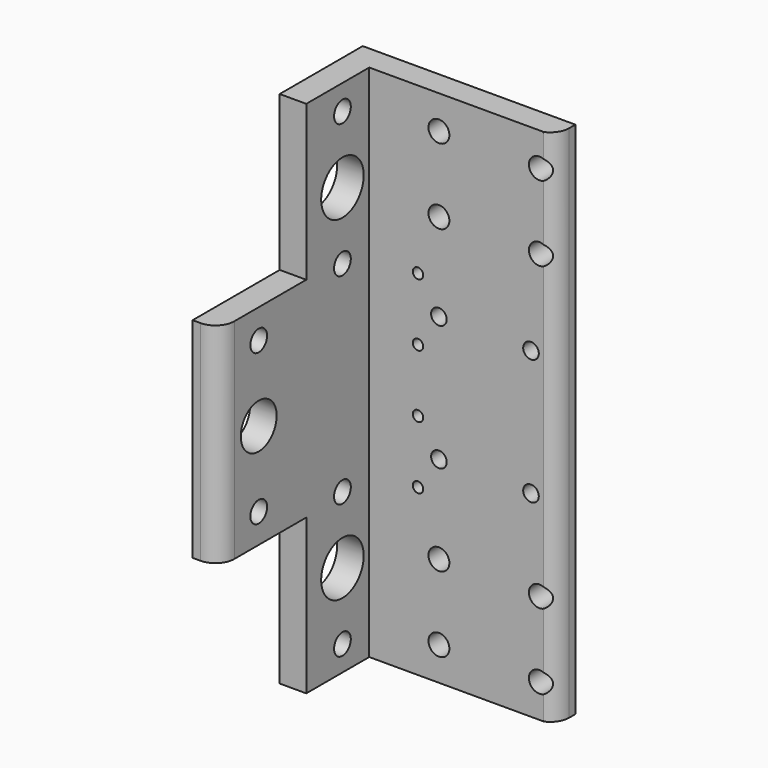
from build123d import *

# Parameters (mm, degrees)
PAD_DEPTH            = 62
PAD001_DEPTH         = 62
FILLET_R             = 4.5
SKETCH001_R          = 6.35
SKETCH001_R_2        = 2.5
POCKET_DEPTH         = 50.801
LINEARPATTERN_COUNT  = 2
LINEARPATTERN_PITCH  = 80
SKETCH002_R          = 5.357812
SKETCH002_R_2        = 2.5
POCKET001_DEPTH      = 50.801
POCKET001_DEPTH_BACK = 0.001
SKETCH003_W          = 60
SKETCH003_H          = 51.1187
POCKET002_DEPTH      = 286.617678
POCKET002_DEPTH_BACK = 337.417678
SKETCH004_R          = 1.865
SKETCH004_R_2        = 0.05
POCKET003_DEPTH      = 0.001
POCKET003_DEPTH_BACK = 50.801
SKETCH005_W          = 60
SKETCH005_H          = 12.25
POCKET004_DEPTH      = 62.001
POCKET004_DEPTH_BACK = 62.001
SKETCH006_W          = 37.3666
SKETCH006_H          = 44.7638
POCKET005_DEPTH      = 286.617678
POCKET005_DEPTH_BACK = 337.417678
SKETCH007_R          = 2.5
POCKET006_DEPTH      = 286.617678
POCKET006_DEPTH_BACK = 337.417678
SKETCH008_R          = 1.25
HOLE_DEPTH           = 10
HOLE_TIPS_R          = 1.25


with BuildPart() as part:
    # Sketch → Pad (new body)
    with BuildSketch(Plane.XY):
        Polygon((0, 0), (50.8, 0), (50.8, -6.35), (6.35, -6.35), (6.35, -50.8), (0, -50.8), align=None)
    extrude(amount=-PAD_DEPTH)

    # Sketch → Pad001 (join)
    with BuildSketch(Plane.XY):
        Polygon((0, 0), (50.8, 0), (50.8, -6.35), (6.35, -6.35), (6.35, -50.8), (0, -50.8), align=None)
    extrude(amount=PAD001_DEPTH)

    # Fillet
    fillet_edges = [part.edges().sort_by_distance(p)[0] for p in [
        (6.35, -50.8, 0),
        (6.35, -6.35, 0),
        (50.8, -6.35, 0),
    ]]
    fillet(fillet_edges, radius=FILLET_R)

    # Sketch001 → Pocket (cut, through all)
    with BuildSketch(Plane.YZ):
        with Locations((-14, -40)):
            Circle(SKETCH001_R)
        with Locations((-14, -24)):
            Circle(SKETCH001_R_2)
        with Locations((-14, -56)):
            Circle(SKETCH001_R_2)
    pocket = extrude(amount=POCKET_DEPTH, mode=Mode.SUBTRACT)

    # LinearPattern: Pocket ×2
    with Locations(*[(0, 0, i * LINEARPATTERN_PITCH) for i in range(1, LINEARPATTERN_COUNT)]):
        add(pocket, mode=Mode.SUBTRACT)

    # Sketch002 → Pocket001 (cut, two sides)
    with BuildSketch(Plane.YZ) as pocket001_sk:
        with Locations((-39, 0)):
            Circle(SKETCH002_R)
        with Locations((-39, 18)):
            Circle(SKETCH002_R_2)
        with Locations((-39, -18)):
            Circle(SKETCH002_R_2)
    extrude(amount=POCKET001_DEPTH, mode=Mode.SUBTRACT)
    extrude(pocket001_sk.sketch, amount=-POCKET001_DEPTH_BACK, mode=Mode.SUBTRACT)

    # Sketch003 → Pocket002 (cut, two sides)
    with BuildSketch(Plane.XZ) as pocket002_sk:
        with Locations((36.35, 225.55935)):
            Rectangle(SKETCH003_W, SKETCH003_H)
    pocket002 = extrude(amount=-POCKET002_DEPTH, mode=Mode.SUBTRACT) + extrude(pocket002_sk.sketch, amount=POCKET002_DEPTH_BACK, mode=Mode.SUBTRACT)

    # Mirrored001: Pocket002 across Sketch003 H_Axis
    add(pocket002.mirror(Plane(origin=(0, 0, 0), x_dir=(0, -1, 0), z_dir=(0, 0, 1))), mode=Mode.SUBTRACT)

    # Sketch004 → Pocket003 (cut, two sides)
    with BuildSketch(Plane.XZ) as pocket003_sk:
        with Locations((45, 15)):
            Circle(SKETCH004_R)
        with Locations((45, -15)):
            Circle(SKETCH004_R)
        with Locations((23, 15)):
            Circle(SKETCH004_R)
        with Locations((23, -15)):
            Circle(SKETCH004_R)
        with Locations((34, 0)):
            Circle(SKETCH004_R_2)
    extrude(amount=-POCKET003_DEPTH, mode=Mode.SUBTRACT)
    extrude(pocket003_sk.sketch, amount=POCKET003_DEPTH_BACK, mode=Mode.SUBTRACT)

    # Sketch005 → Pocket004 (cut, two sides)
    with BuildSketch(Plane.XY) as pocket004_sk:
        with Locations((36.35, -12.125)):
            Rectangle(SKETCH005_W, SKETCH005_H)
    extrude(amount=-POCKET004_DEPTH, mode=Mode.SUBTRACT)
    extrude(pocket004_sk.sketch, amount=POCKET004_DEPTH_BACK, mode=Mode.SUBTRACT)

    # Sketch006 → Pocket005 (cut, two sides)
    with BuildSketch(Plane.YZ) as pocket005_sk:
        with Locations((-43.4833, 47.3819)):
            Rectangle(SKETCH006_W, SKETCH006_H)
    pocket005 = extrude(amount=-POCKET005_DEPTH, mode=Mode.SUBTRACT) + extrude(pocket005_sk.sketch, amount=POCKET005_DEPTH_BACK, mode=Mode.SUBTRACT)

    # Mirrored: Pocket005 across Sketch006 H_Axis
    add(pocket005.mirror(Plane.XY), mode=Mode.SUBTRACT)

    # Sketch007 → Pocket006 (cut, two sides)
    with BuildSketch(Plane.XZ) as pocket006_sk:
        with Locations((23, 54)):
            Circle(SKETCH007_R)
        with Locations((47, 54)):
            Circle(SKETCH007_R)
        with Locations((47, 36)):
            Circle(SKETCH007_R)
        with Locations((23, 36)):
            Circle(SKETCH007_R)
    pocket006 = extrude(amount=-POCKET006_DEPTH, mode=Mode.SUBTRACT) + extrude(pocket006_sk.sketch, amount=POCKET006_DEPTH_BACK, mode=Mode.SUBTRACT)

    # Mirrored002: Pocket006 across Sketch007 H_Axis
    add(pocket006.mirror(Plane(origin=(0, 0, 0), x_dir=(0, -1, 0), z_dir=(0, 0, 1))), mode=Mode.SUBTRACT)

    # Sketch008 (on Face3 of Mirrored002) → Hole (cut)
    with BuildSketch(Plane(origin=(0, 0, 0), x_dir=(-1, 0, 0), z_dir=(0, 1, 0))):
        with Locations((-18, -7.5)):
            Circle(SKETCH008_R)
        with Locations((-3, -7.5)):
            Circle(SKETCH008_R)
        with Locations((-3, -22.5)):
            Circle(SKETCH008_R)
        with Locations((-18, -22.5)):
            Circle(SKETCH008_R)
        with Locations((-3, 7.5)):
            Circle(SKETCH008_R)
        with Locations((-3, 22.5)):
            Circle(SKETCH008_R)
        with Locations((-18, 22.5)):
            Circle(SKETCH008_R)
        with Locations((-18, 7.5)):
            Circle(SKETCH008_R)
    extrude(amount=-HOLE_DEPTH, mode=Mode.SUBTRACT)

    # Hole tips → Hole tip 1 section 0
    with BuildSketch(Plane(origin=(0, -10, 0), x_dir=(-1, 0, 0), z_dir=(0, 1, 0)), mode=Mode.PRIVATE) as hole_tip_1_s0:
        with Locations((-18, -7.5)):
            Circle(HOLE_TIPS_R)
    loft([hole_tip_1_s0.sketch, Vertex(18, -10.751076, -7.5)], mode=Mode.SUBTRACT)

    # Hole tips → Hole tip 2 section 0
    with BuildSketch(Plane(origin=(0, -10, 0), x_dir=(-1, 0, 0), z_dir=(0, 1, 0)), mode=Mode.PRIVATE) as hole_tip_2_s0:
        with Locations((-3, -7.5)):
            Circle(HOLE_TIPS_R)
    loft([hole_tip_2_s0.sketch, Vertex(3, -10.751076, -7.5)], mode=Mode.SUBTRACT)

    # Hole tips → Hole tip 3 section 0
    with BuildSketch(Plane(origin=(0, -10, 0), x_dir=(-1, 0, 0), z_dir=(0, 1, 0)), mode=Mode.PRIVATE) as hole_tip_3_s0:
        with Locations((-3, -22.5)):
            Circle(HOLE_TIPS_R)
    loft([hole_tip_3_s0.sketch, Vertex(3, -10.751076, -22.5)], mode=Mode.SUBTRACT)

    # Hole tips → Hole tip 4 section 0
    with BuildSketch(Plane(origin=(0, -10, 0), x_dir=(-1, 0, 0), z_dir=(0, 1, 0)), mode=Mode.PRIVATE) as hole_tip_4_s0:
        with Locations((-18, -22.5)):
            Circle(HOLE_TIPS_R)
    loft([hole_tip_4_s0.sketch, Vertex(18, -10.751076, -22.5)], mode=Mode.SUBTRACT)

    # Hole tips → Hole tip 5 section 0
    with BuildSketch(Plane(origin=(0, -10, 0), x_dir=(-1, 0, 0), z_dir=(0, 1, 0)), mode=Mode.PRIVATE) as hole_tip_5_s0:
        with Locations((-3, 7.5)):
            Circle(HOLE_TIPS_R)
    loft([hole_tip_5_s0.sketch, Vertex(3, -10.751076, 7.5)], mode=Mode.SUBTRACT)

    # Hole tips → Hole tip 6 section 0
    with BuildSketch(Plane(origin=(0, -10, 0), x_dir=(-1, 0, 0), z_dir=(0, 1, 0)), mode=Mode.PRIVATE) as hole_tip_6_s0:
        with Locations((-3, 22.5)):
            Circle(HOLE_TIPS_R)
    loft([hole_tip_6_s0.sketch, Vertex(3, -10.751076, 22.5)], mode=Mode.SUBTRACT)

    # Hole tips → Hole tip 7 section 0
    with BuildSketch(Plane(origin=(0, -10, 0), x_dir=(-1, 0, 0), z_dir=(0, 1, 0)), mode=Mode.PRIVATE) as hole_tip_7_s0:
        with Locations((-18, 22.5)):
            Circle(HOLE_TIPS_R)
    loft([hole_tip_7_s0.sketch, Vertex(18, -10.751076, 22.5)], mode=Mode.SUBTRACT)

    # Hole tips → Hole tip 8 section 0
    with BuildSketch(Plane(origin=(0, -10, 0), x_dir=(-1, 0, 0), z_dir=(0, 1, 0)), mode=Mode.PRIVATE) as hole_tip_8_s0:
        with Locations((-18, 7.5)):
            Circle(HOLE_TIPS_R)
    loft([hole_tip_8_s0.sketch, Vertex(18, -10.751076, 7.5)], mode=Mode.SUBTRACT)


solid = part.part
